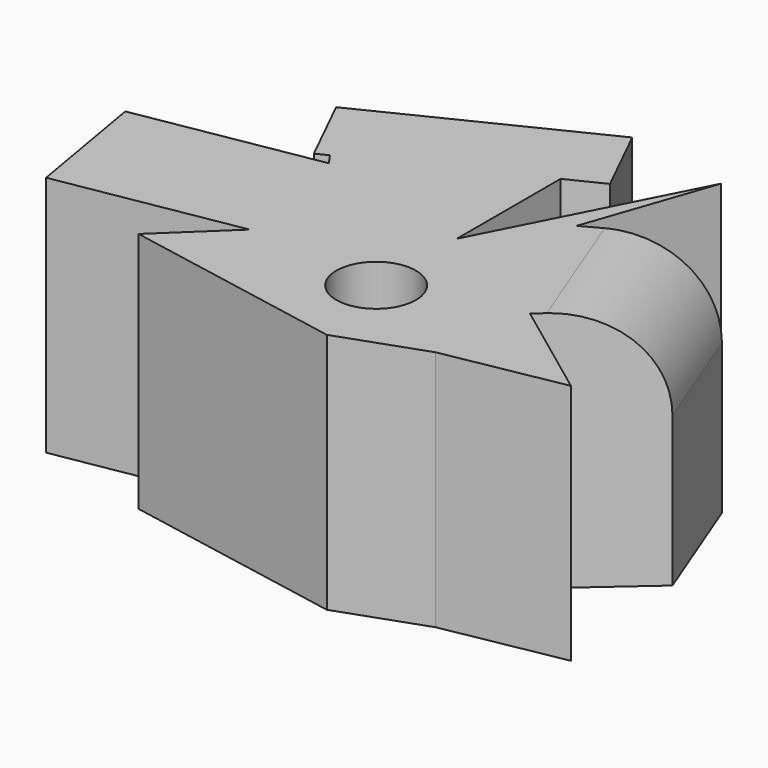
from build123d import *

# Parameters (mm, degrees)
F1_DEPTH = 77.216
F2_R     = 29.4340917525
F4_D     = 25.4
F5_DEPTH = 25.654
F6_DEPTH = 57.912


with BuildPart() as f1:
    # F0 (on Top) → F1 (new body)
    with BuildSketch(Plane.XY):
        Polygon((32.8288413584, 64.337939024), (0, 0), (0, 69.9468851089), (-67.8022876382, 36.6231352091), (-50.315566361, 11.8777733296), (-43.3868691325, -28.3746812493), (-63.5130926967, -47.5110933185), (7.0936689153, -60.7086196542), (34.1485999525, -51.1404126883), (71.7615485191, -44.2117117345), (39.4276119769, -20.1262254268), (66.1525949836, 3.2993813511), (51.3053834438, 41.5722057223), (18.9714413136, 24.0854844451), align=None)
    extrude(amount=F1_DEPTH)

    # F2
    f2_edges = [f1.edges().sort_by_distance(p)[0] for p in [
        (58.728989, 22.435794, 77.216),
    ]]
    fillet(f2_edges, radius=F2_R)

    # F4 (through all)
    with Locations(Plane.XY.offset(77.216)):
        with Locations((0, -32.1689685807)):
            Hole(F4_D / 2)

    # F5 (add): a face of the model
    f5_faces = [f1.faces().sort_by_distance(p)[0] for p in [
        (-33.9011438191, 53.285010159, 38.608),
    ]]
    extrude(f5_faces, amount=-F5_DEPTH)

    # F6 (add): a face of the model
    f6_faces = [f1.faces().sort_by_distance(p)[0] for p in [
        (-46.8512177467, -8.2484539598, 38.608),
    ]]
    extrude(f6_faces, amount=F6_DEPTH)


solid = f1.part
